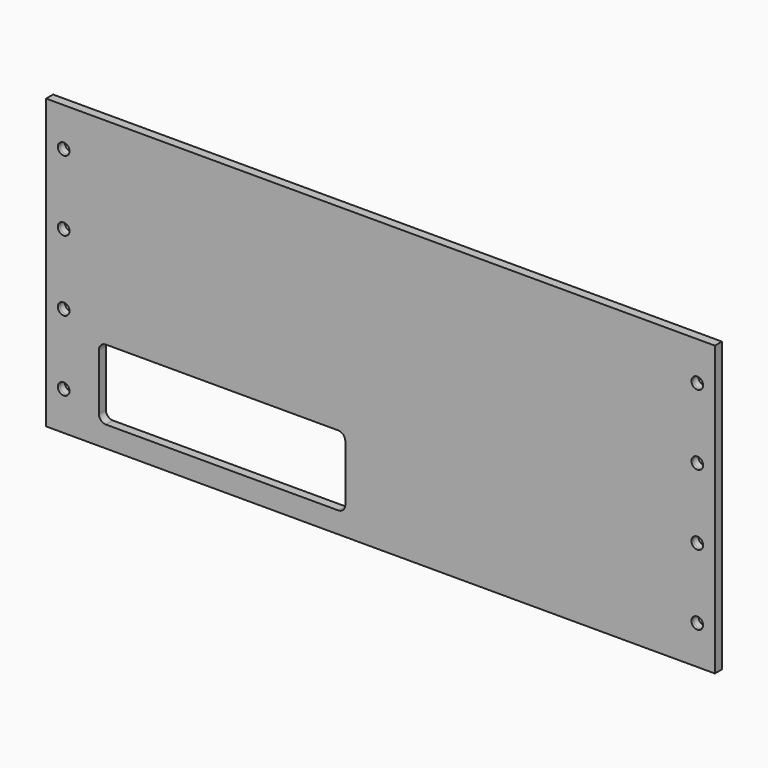
from build123d import *

# Parameters (mm, degrees)
SKETCH_W       = 190
SKETCH_H       = 82
SKETCH_R       = 1.65
PAD_DEPTH      = 0.75
PAD_DEPTH_BACK = 1.75
POCKET_DEPTH   = 5


with BuildPart() as part:
    # Sketch → Pad (new body, two sides)
    with BuildSketch(Plane.XZ) as pad_sk:
        Rectangle(SKETCH_W, SKETCH_H)
        with Locations((90, 30)):
            Circle(SKETCH_R, mode=Mode.SUBTRACT)
        with Locations((90, 10)):
            Circle(SKETCH_R, mode=Mode.SUBTRACT)
        with Locations((90, -30)):
            Circle(SKETCH_R, mode=Mode.SUBTRACT)
        with Locations((90, -10)):
            Circle(SKETCH_R, mode=Mode.SUBTRACT)
        with Locations((-90, 30)):
            Circle(SKETCH_R, mode=Mode.SUBTRACT)
        with Locations((-90, 10)):
            Circle(SKETCH_R, mode=Mode.SUBTRACT)
        with Locations((-90, -30)):
            Circle(SKETCH_R, mode=Mode.SUBTRACT)
        with Locations((-90, -10)):
            Circle(SKETCH_R, mode=Mode.SUBTRACT)
    extrude(amount=PAD_DEPTH)
    extrude(pad_sk.sketch, amount=-PAD_DEPTH_BACK)

    # Sketch001 → Pocket (cut)
    with BuildSketch(Plane.XZ.offset(0.75)):
        with BuildLine():
            Line((-80, -17), (-80, -33))
            ThreePointArc((-80, -33), (-79.414214, -34.414214), (-78, -35))
            Line((-78, -35), (-12, -35))
            ThreePointArc((-12, -35), (-10.585786, -34.414214), (-10, -33))
            Line((-10, -33), (-10, -17))
            ThreePointArc((-10, -17), (-10.585786, -15.585786), (-12, -15))
            Line((-12, -15), (-78, -15))
            ThreePointArc((-78, -15), (-79.414214, -15.585786), (-80, -17))
        make_face()
    extrude(amount=-POCKET_DEPTH, mode=Mode.SUBTRACT)


solid = part.part
